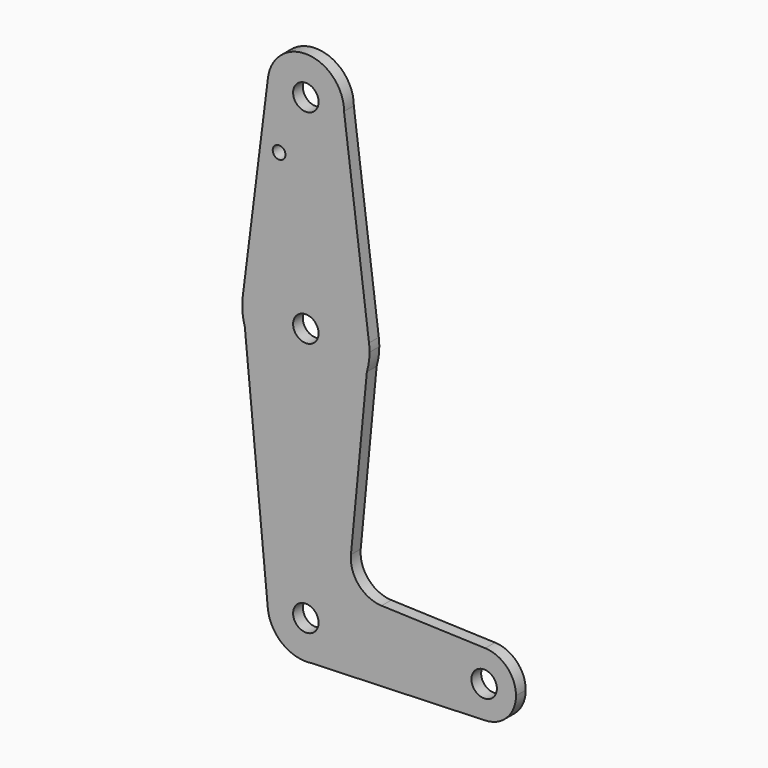
from build123d import *

# Parameters (mm, degrees)
F0_R     = 3.175
F0_R_2   = 1.5875
F1_DEPTH = 3.048


with BuildPart() as f1:
    # F0 (on Front) → F1 (new body)
    with BuildSketch(Plane.XZ):
        with BuildLine():
            ThreePointArc((-13.325932, 55.328428), (-13.325932, 55.330775), (-13.325931, 55.333122))
            ThreePointArc((-13.325931, 55.333122), (-22.409319, 64.847879), (-32.334982, 56.215397))
            ThreePointArc((-32.334982, 56.215397), (-23.294888, 45.818474), (-13.325932, 55.328428))
        make_face()
        with Locations((-22.850931, 55.333122)):
            Circle(F0_R, mode=Mode.SUBTRACT)
        with BuildLine():
            ThreePointArc((-13.325932, 55.328428), (-23.294888, 45.818474), (-32.334982, 56.215397))
            Line((-32.334982, 56.215397), (-38.461884, 7.416482))
            ThreePointArc((-38.461884, 7.416482), (-22.408201, 20.401947), (-7.103499, 6.541601))
            Line((-7.103499, 6.541601), (-13.325932, 55.328428))
        make_face()
        with Locations((-29.517137, 41.058322)):
            Circle(F0_R_2, mode=Mode.SUBTRACT)
        with BuildLine():
            ThreePointArc((-7.103499, 6.541601), (-22.408201, 20.401947), (-38.461884, 7.416482))
            ThreePointArc((-38.461884, 7.416482), (-38.703244, 3.684701), (-38.064952, 0))
            ThreePointArc((-38.064952, 0), (-22.850931, -11.341878), (-7.63691, 0))
            ThreePointArc((-7.63691, 0), (-7.142045, 2.242593), (-6.975931, 4.533122))
            ThreePointArc((-6.975931, 4.533122), (-7.007855, 5.539385), (-7.103499, 6.541601))
        make_face()
        with Locations((-22.850931, 4.533122)):
            Circle(F0_R, mode=Mode.SUBTRACT)
        with BuildLine():
            ThreePointArc((-7.63691, 0), (-22.850931, -11.341878), (-38.064952, 0))
            Line((-38.064952, 0), (-32.332576, -59.874648))
            ThreePointArc((-32.332576, -59.874648), (-23.305333, -49.452724), (-13.325931, -58.966878))
            ThreePointArc((-13.325931, -58.966878), (-15.692974, -65.250927), (-21.617642, -68.411698))
            Line((-21.617642, -68.411698), (21.874867, -66.899586))
            ThreePointArc((21.874867, -66.899586), (13.661569, -58.963573), (21.881474, -51.034404))
            Line((21.881474, -51.034404), (-3.975429, -50.113868))
            ThreePointArc((-3.975429, -50.113868), (-9.670516, -47.409871), (-11.606494, -41.41007))
            Line((-11.606494, -41.41007), (-7.63691, 0))
        make_face()
        with BuildLine():
            ThreePointArc((-13.325931, -58.966878), (-23.305333, -49.452724), (-32.332576, -59.874648))
            ThreePointArc((-32.332576, -59.874648), (-29.466851, -65.819268), (-23.425296, -68.474545))
            Line((-23.425296, -68.474545), (-21.617642, -68.411698))
            ThreePointArc((-21.617642, -68.411698), (-15.692974, -65.250927), (-13.325931, -58.966878))
        make_face()
        with Locations((-22.850931, -58.966878)):
            Circle(F0_R, mode=Mode.SUBTRACT)
        with BuildLine():
            Line((-21.617642, -68.411698), (-23.425296, -68.474545))
            ThreePointArc((-23.425296, -68.474545), (-22.519974, -68.486127), (-21.617642, -68.411698))
        make_face()
        with BuildLine():
            ThreePointArc((29.536569, -58.966878), (27.310702, -53.454968), (21.881474, -51.034404))
            ThreePointArc((21.881474, -51.034404), (13.661569, -58.963573), (21.874867, -66.899586))
            ThreePointArc((21.874867, -66.899586), (27.308406, -64.481167), (29.536569, -58.966878))
        make_face()
        with Locations((21.599069, -58.966878)):
            Circle(F0_R, mode=Mode.SUBTRACT)
    extrude(amount=F1_DEPTH)


solid = f1.part
